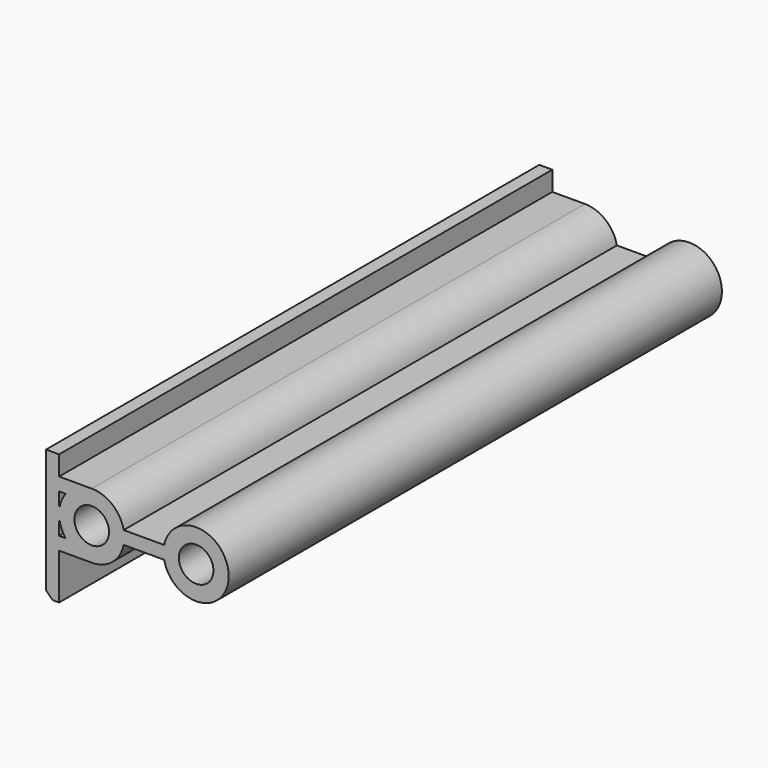
from build123d import *

# Parameters (mm, degrees)
CYLINDER035_R      = 2.65
CYLINDER035_DEPTH  = 94.5
CYLINDER036_R      = 2.65
CYLINDER036_DEPTH  = 94.5
CYLINDER038_R      = 5
CYLINDER038_DEPTH  = 94.5
CYLINDER037_R      = 5
CYLINDER037_DEPTH  = 94.5
BOX033_W           = 6
BOX033_H           = 94.5
BOX033_DEPTH       = 2
BOX032_W           = 24
BOX032_H           = 94.5
BOX032_DEPTH       = 2
BOX031_W           = 2
BOX031_H           = 94.5
BOX031_DEPTH       = 20
CHAMFER006034_SIZE = 1
BOX042_W           = 6
BOX042_H           = 94.5
BOX042_DEPTH       = 2


with BuildPart() as cylinder035:
    # Cylinder035 → Cylinder035 (new body)
    with BuildSketch(Plane(origin=(8, -15, 7), x_dir=(1, 0, 0), z_dir=(0, -1, 0))):
        Circle(CYLINDER035_R)
    extrude(amount=CYLINDER035_DEPTH)


with BuildPart() as fusion020006007003002009018004004009:
    # Cylinder036 → Cylinder036 (new body)
    with BuildSketch(Plane(origin=(-8, -15, 7), x_dir=(1, 0, 0), z_dir=(0, -1, 0))):
        Circle(CYLINDER036_R)
    extrude(amount=CYLINDER036_DEPTH)

    # Fusion020006007003002009018004004009: union Cylinder035
    add(cylinder035.part)


with BuildPart() as cylinder038:
    # Cylinder038 → Cylinder038 (new body)
    with BuildSketch(Plane(origin=(8, -15, 7), x_dir=(1, 0, 0), z_dir=(0, -1, 0))):
        Circle(CYLINDER038_R)
    extrude(amount=CYLINDER038_DEPTH)


with BuildPart() as fusion020006007003002009018004004007:
    # Cylinder037 → Cylinder037 (new body)
    with BuildSketch(Plane(origin=(-8, -15, 7), x_dir=(1, 0, 0), z_dir=(0, -1, 0))):
        Circle(CYLINDER037_R)
    extrude(amount=CYLINDER037_DEPTH)

    # Fusion020006007003002009018004004007: union Cylinder038
    add(cylinder038.part)


with BuildPart() as cube033:
    # Box033 → Box033 (new body)
    with BuildSketch(Plane(origin=(-14, -109.5, 2), x_dir=(1, 0, 0), z_dir=(0, 0, 1))):
        with Locations((3, 47.25)):
            Rectangle(BOX033_W, BOX033_H)
    extrude(amount=BOX033_DEPTH)


with BuildPart() as cube032:
    # Box032 → Box032 (new body)
    with BuildSketch(Plane(origin=(-15, -109.5, 6), x_dir=(1, 0, 0), z_dir=(0, 0, 1))):
        with Locations((12, 47.25)):
            Rectangle(BOX032_W, BOX032_H)
    extrude(amount=BOX032_DEPTH)


with BuildPart() as chamfer006034:
    # Box031 → Box031 (new body)
    with BuildSketch(Plane(origin=(-15, -109.5, -5), x_dir=(1, 0, 0), z_dir=(0, 0, 1))):
        with Locations((1, 47.25)):
            Rectangle(BOX031_W, BOX031_H)
    extrude(amount=BOX031_DEPTH)

    # Chamfer006034
    chamfer006034_edges = [chamfer006034.edges().sort_by_distance(p)[0] for p in [
        (-15, -62.25, -5),
    ]]
    chamfer(chamfer006034_edges, length=CHAMFER006034_SIZE)


with BuildPart() as bottom_side_95mm_wall:
    # Box042 → Box042 (new body)
    with BuildSketch(Plane(origin=(-14, -109.5, 10), x_dir=(1, 0, 0), z_dir=(0, 0, 1))):
        with Locations((3, 47.25)):
            Rectangle(BOX042_W, BOX042_H)
    extrude(amount=BOX042_DEPTH)

    # Fusion020006007003002009018004004013: union Fusion020006007003002009018004004007, Cube033, Cube032, Chamfer006034
    add(fusion020006007003002009018004004007.part)
    add(cube033.part)
    add(cube032.part)
    add(chamfer006034.part)

    # Cut019003005: cut Fusion020006007003002009018004004009
    add(fusion020006007003002009018004004009.part, mode=Mode.SUBTRACT)


solid = bottom_side_95mm_wall.part
